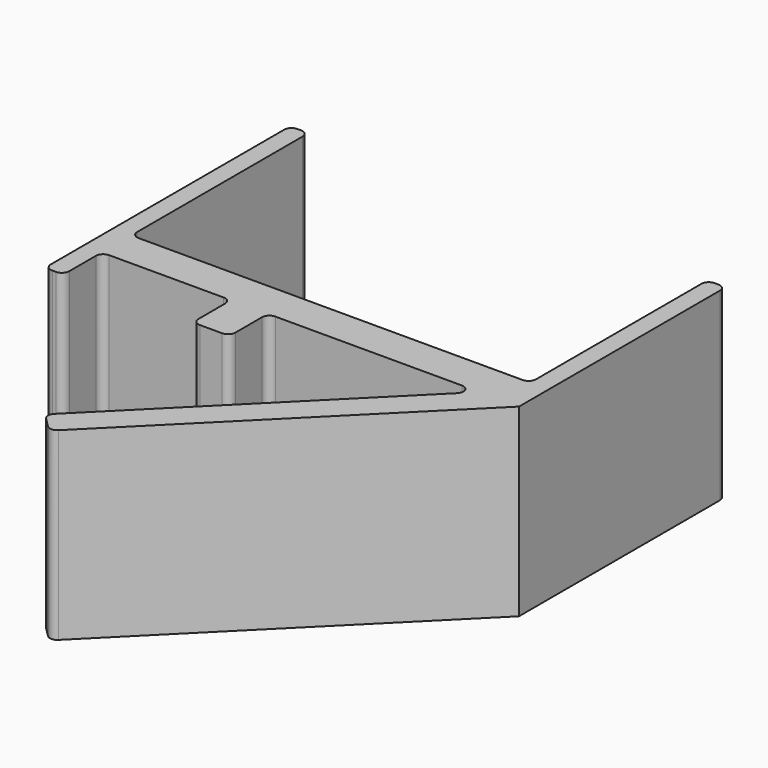
from build123d import *

# Parameters (mm, degrees)
BOX_W     = 10
BOX_H     = 17
BOX_DEPTH = 50
PAD_DEPTH = 50
FILLET_R  = 2


with BuildPart() as cube:
    # Box → Box (new body)
    with BuildSketch(Plane(origin=(40, 0, 0), x_dir=(1, 0, 0), z_dir=(0, 0, 1))):
        with Locations((5, 8.5)):
            Rectangle(BOX_W, BOX_H)
    extrude(amount=BOX_DEPTH)


with BuildPart() as fillet_body:
    # Sketch → Pad (new body)
    with BuildSketch(Plane.XY):
        Polygon((0, 0), (0, 83), (5, 83), (5, 23), (113, 23), (113, 83), (118, 83), (118, 13), (47.289322, -57.710678), (41.959322, -52.380678), (107.34, 13), (5, 13), (5, 0), align=None)
    extrude(amount=PAD_DEPTH)

    # Fusion: union Cube
    add(cube.part)

    # Fillet
    fillet_edges = [fillet_body.edges().sort_by_distance(p)[0] for p in [
        (0, 0, 25),
        (0, 83, 25),
        (5, 0, 25),
        (5, 83, 25),
        (5, 13, 25),
        (5, 23, 25),
        (113, 23, 25),
        (113, 83, 25),
        (118, 83, 25),
        (47.289322, -57.710678, 25),
        (41.959322, -52.380678, 25),
        (107.34, 13, 25),
        (50, 13, 25),
        (40, 13, 25),
        (50, 0, 25),
        (40, 0, 25),
    ]]
    fillet(fillet_edges, radius=FILLET_R)


solid = fillet_body.part
